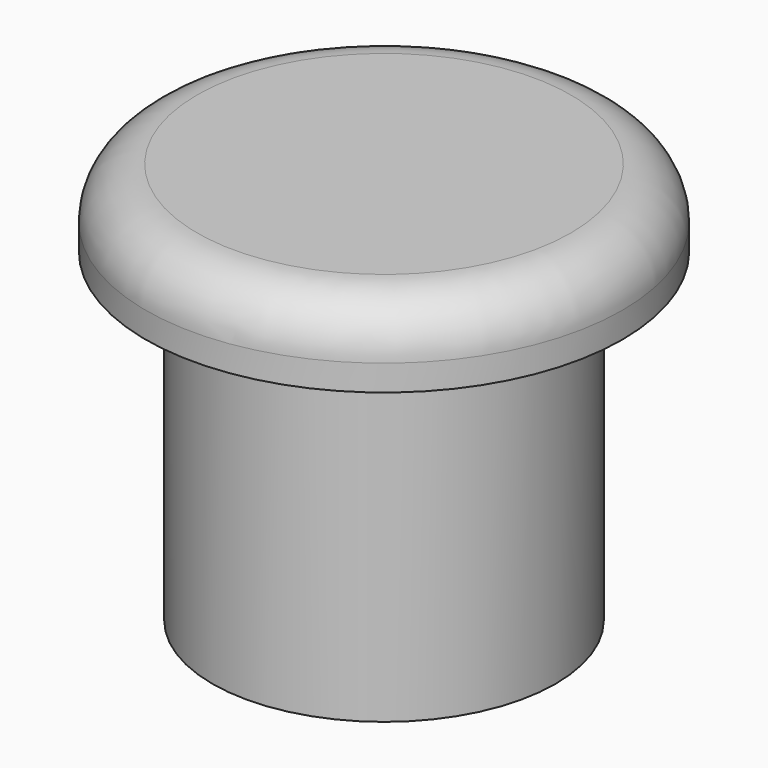
from build123d import *


with BuildPart() as f1:
    # F0 (on Front) → F1 (revolve)
    with BuildSketch(Plane.XZ):
        with BuildLine():
            Line((-11.032631, 20.86582), (-11.032631, 0))
            Line((-11.032631, 0), (-7.610024, 0))
            Line((-7.610024, 0), (-7.610024, 20.86582))
            Line((-7.610024, 20.86582), (0, 20.86582))
            Line((0, 20.86582), (0, 25.828602))
            Line((0, 25.828602), (-12.0142, 25.828602))
            ThreePointArc((-12.0142, 25.828602), (-14.349067, 24.861468), (-15.3162, 22.526602))
            Line((-15.3162, 22.526602), (-15.3162, 20.86582))
            Line((-15.3162, 20.86582), (-11.032631, 20.86582))
        make_face()
    revolve(axis=Axis((0, 0, 10.43291), (0, 0, -1)))


solid = f1.part
